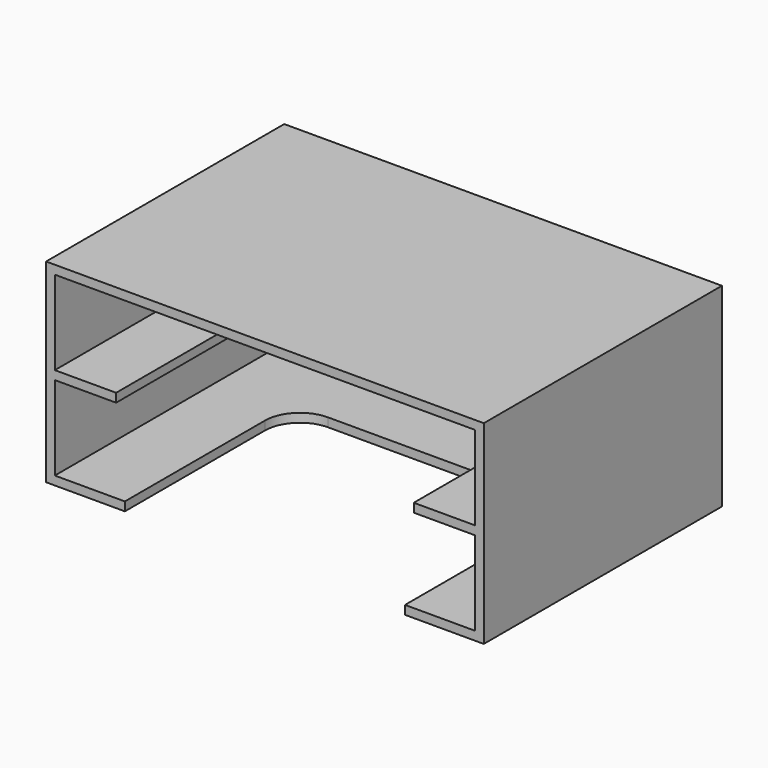
from build123d import *

# Parameters (mm, degrees)
F0_W      = 158.75
F0_H      = 70.485
F1_DEPTH  = 104.775
F2_T      = -3.175
F3_W      = 152.4
F3_H      = 64.135
F4_DEPTH  = 3.175
F5_W      = 152.4
F5_H      = 3.175
F6_DEPTH  = 104.775
F7_W      = 107.95
F7_H      = 3.175
F8_DEPTH  = 104.775
F9_W      = 158.75
F9_H      = 70.485
F9_W_2    = 107.95
F9_H_2    = 51.435
F10_DEPTH = 3.175
F11_R     = 6.35
F12_W     = 101.6
F12_H     = 76.2
F13_DEPTH = 3.175
F14_R     = 12.7


with BuildPart() as f1:
    # F0 (on Front) → F1 (new body)
    with BuildSketch(Plane.XZ):
        Rectangle(F0_W, F0_H)
    extrude(amount=-F1_DEPTH)

    # F2
    f2_openings = [f1.faces().sort_by_distance(p)[0] for p in [
        (0, 0, 0),
    ]]
    offset(amount=F2_T, openings=f2_openings)

    # F3 (on face) → F4 (cut, through all)
    with BuildSketch(Plane.XZ.offset(-101.6)):
        Rectangle(F3_W, F3_H)
    extrude(amount=-F4_DEPTH, mode=Mode.SUBTRACT)

    # F5 (on face) → F6 (join)
    with BuildSketch(Plane.XZ):
        Rectangle(F5_W, F5_H)
    extrude(amount=-F6_DEPTH)

    # F7 (on face) → F8 (cut, through all)
    with BuildSketch(Plane.XZ):
        Rectangle(F7_W, F7_H)
    extrude(amount=-F8_DEPTH, mode=Mode.SUBTRACT)

    # F9 (on face) → F10 (join)
    with BuildSketch(Plane(origin=(0, 104.775, 0), x_dir=(-1, 0, 0), z_dir=(0, 1, 0))):
        Rectangle(F9_W, F9_H)
        Rectangle(F9_W_2, F9_H_2, mode=Mode.SUBTRACT)
    extrude(amount=F10_DEPTH)

    # F11
    f11_edges = [f1.edges().sort_by_distance(p)[0] for p in [
        (53.975, 106.3625, 25.7175),
        (-53.975, 106.3625, 25.7175),
        (-53.975, 106.3625, -25.7175),
        (53.975, 106.3625, -25.7175),
    ]]
    fillet(f11_edges, radius=F11_R)

    # F12 (on face) → F13 (cut, through all)
    with BuildSketch(Plane(origin=(0, 0, -35.2425), x_dir=(1, 0, 0), z_dir=(0, 0, -1))):
        with Locations((0, -38.1)):
            Rectangle(F12_W, F12_H)
    extrude(amount=-F13_DEPTH, mode=Mode.SUBTRACT)

    # F14
    f14_edges = [f1.edges().sort_by_distance(p)[0] for p in [
        (-50.8, 76.2, -33.655),
        (50.8, 76.2, -33.655),
    ]]
    fillet(f14_edges, radius=F14_R)


solid = f1.part
